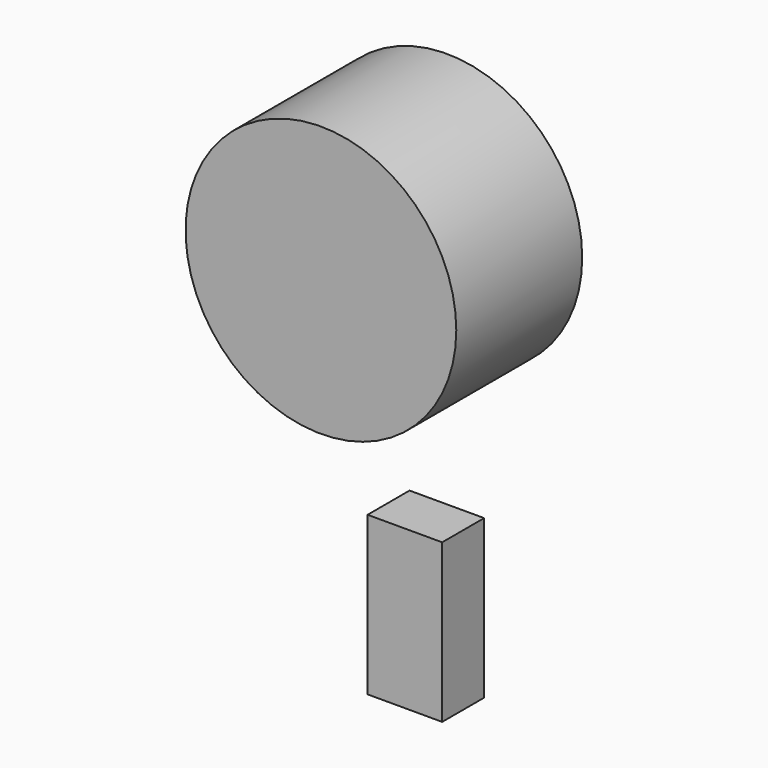
from build123d import *

# Parameters (mm, degrees)
F0_R     = 65.525332
F1_DEPTH = 76.2
F2_W     = 36.110322
F2_H     = 76.545656
F3_DEPTH = 25.4


with BuildPart() as f1:
    # F0 (on Front) → F1 (new body)
    with BuildSketch(Plane.XZ):
        Circle(F0_R)
    extrude(amount=F1_DEPTH)


with BuildPart() as f3:
    # F2 (on Front) → F3 (new body)
    with BuildSketch(Plane.XZ):
        with Locations((0, -164.772779)):
            Rectangle(F2_W, F2_H)
    extrude(amount=F3_DEPTH)


solid = Compound([f1.part, f3.part])
